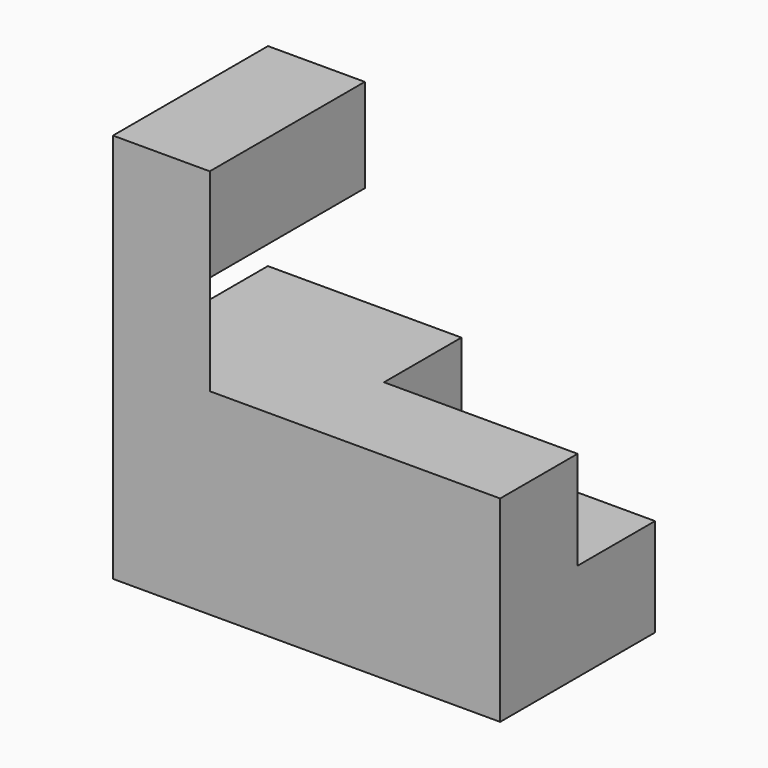
from build123d import *

# Parameters (mm, degrees)
F0_W      = 15.748
F0_H      = 15.748
F1_DEPTH  = 16.002
F3_DEPTH  = 8.128
F5_DEPTH  = 7.62
F6_W      = 7.874
F6_H      = 16.002
F7_DEPTH  = 15.748
F8_W      = 7.874
F8_H      = 7.983371
F9_DEPTH  = 7.874
F11_DEPTH = 7.747


with BuildPart() as f1:
    # F0 (on Top) → F1 (new body)
    with BuildSketch(Plane.XY):
        Rectangle(F0_W, F0_H)
    extrude(amount=F1_DEPTH)

    # F2 (on face) → F3 (join)
    with BuildSketch(Plane.XY.offset(16.002)):
        Polygon((0, -7.874), (-7.874, 0), (-7.874, -7.874), align=None)
    extrude(amount=F3_DEPTH)

    # F4 (on face) → F5 (join)
    with BuildSketch(Plane.XY.offset(24.13)):
        Polygon((-7.874, 0), (0, -7.874), (0, 7.889553), (-7.874, 7.889553), align=None)
        Polygon((-7.874, 0), (-7.874, -7.874), (0, -7.874), align=None)
    extrude(amount=F5_DEPTH)

    # F6 (on face) → F7 (join)
    with BuildSketch(Plane.YZ.offset(7.874)):
        with Locations((-3.937, 8.001)):
            Rectangle(F6_W, F6_H)
    extrude(amount=F7_DEPTH)

    # F8 (on face) → F9 (join, through all)
    with BuildSketch(Plane(origin=(0, 0, 0), x_dir=(-1, 0, 0), z_dir=(0, 1, 0))):
        with Locations((-19.685, 3.991685)):
            Rectangle(F8_W, F8_H)
    extrude(amount=F9_DEPTH)


with BuildPart() as f11:
    # F10 (on face) → F11 (new body)
    with BuildSketch(Plane(origin=(0, 0, 0), x_dir=(1, 0, 0), z_dir=(0, 0, -1))):
        Polygon((7.874, 0), (15.748, -7.874), (15.748, 0), align=None)
    extrude(amount=-F11_DEPTH)


solid = Compound([f1.part, f11.part])
